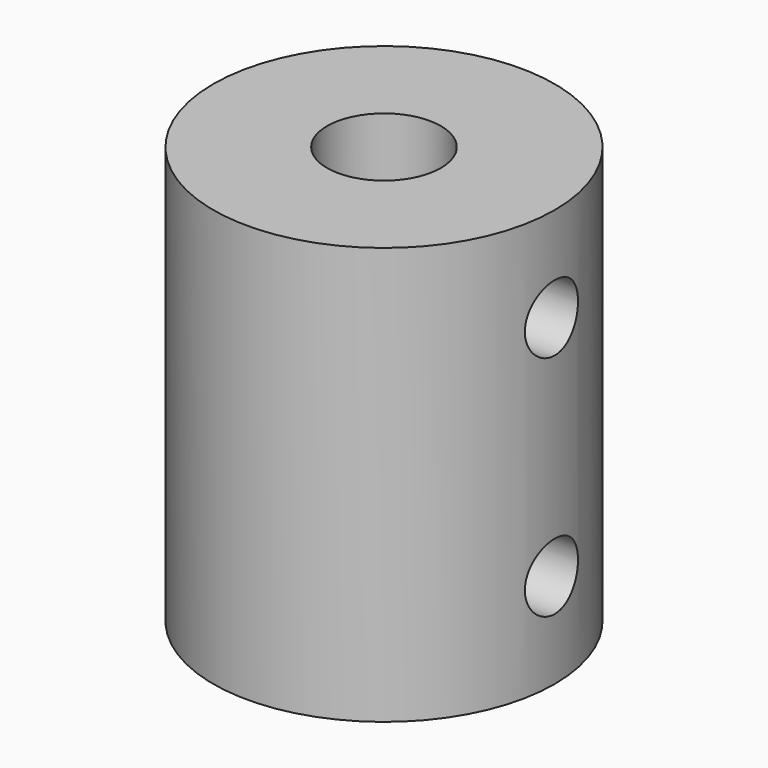
from build123d import *

# Parameters (mm, degrees)
F0_R          = 9
F0_R_2        = 3
F1_DEPTH      = 22
F2_R          = 1.75
F3_DEPTH      = 9.001
F3_DEPTH_BACK = 25


with BuildPart() as f1:
    # F0 (on Top) → F1 (new body)
    with BuildSketch(Plane.XY):
        Circle(F0_R)
        Circle(F0_R_2, mode=Mode.SUBTRACT)
    extrude(amount=F1_DEPTH)

    # F2 (on Right) → F3 (cut, two sides)
    with BuildSketch(Plane.YZ) as f3_sk:
        with Locations((0, 5)):
            Circle(F2_R)
        with Locations((0, 17)):
            Circle(F2_R)
    extrude(amount=-F3_DEPTH, mode=Mode.SUBTRACT)
    extrude(f3_sk.sketch, amount=F3_DEPTH_BACK, mode=Mode.SUBTRACT)


solid = f1.part
